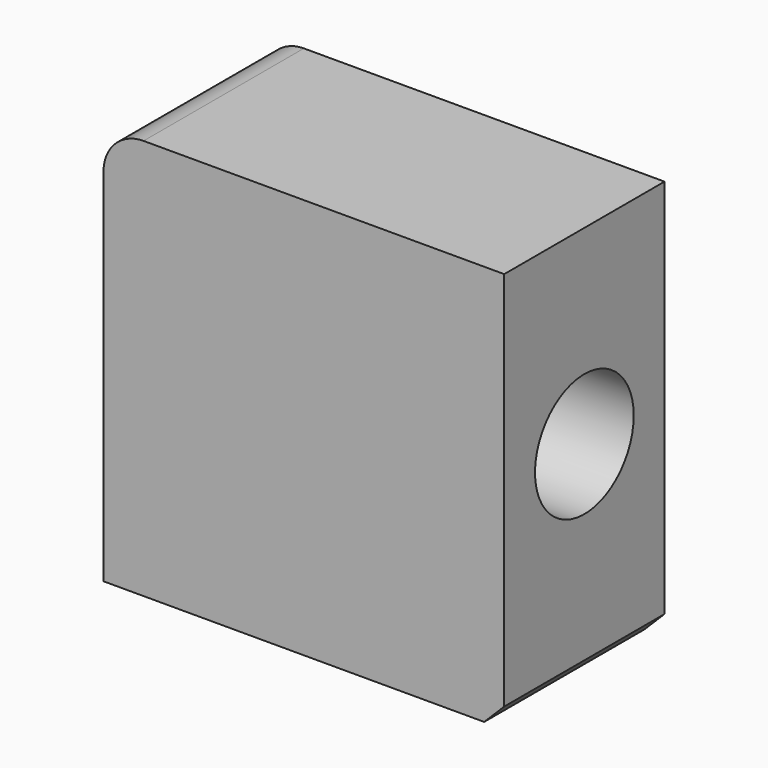
from build123d import *

# Parameters (mm, degrees)
F0_W     = 100
F0_H     = 100
F1_DEPTH = 50
F2_R     = 10
F3_SIZE  = 5
F4_R     = 15.391397
F5_DEPTH = 50
F6_R     = 10
F7_DEPTH = 50


with BuildPart() as f1:
    # F0 (on Front) → F1 (new body)
    with BuildSketch(Plane.XZ):
        Rectangle(F0_W, F0_H)
    extrude(amount=F1_DEPTH)

    # F2
    f2_edges = [f1.edges().sort_by_distance(p)[0] for p in [
        (-50, -25, 50),
    ]]
    fillet(f2_edges, radius=F2_R)

    # F3
    f3_edges = [f1.edges().sort_by_distance(p)[0] for p in [
        (50, -25, -50),
    ]]
    chamfer(f3_edges, length=F3_SIZE)

    # F4 (on face) → F5 (cut)
    with BuildSketch(Plane.YZ.offset(50)):
        with Locations((-25, 2.5)):
            Circle(F4_R)
    extrude(amount=-F5_DEPTH, mode=Mode.SUBTRACT)

    # F6 (on face) → F7 (cut)
    with BuildSketch(Plane(origin=(-50, 0, 0), x_dir=(0, -1, 0), z_dir=(-1, 0, 0))):
        with Locations((25, 0)):
            Circle(F6_R)
    extrude(amount=-F7_DEPTH, mode=Mode.SUBTRACT)


solid = f1.part
